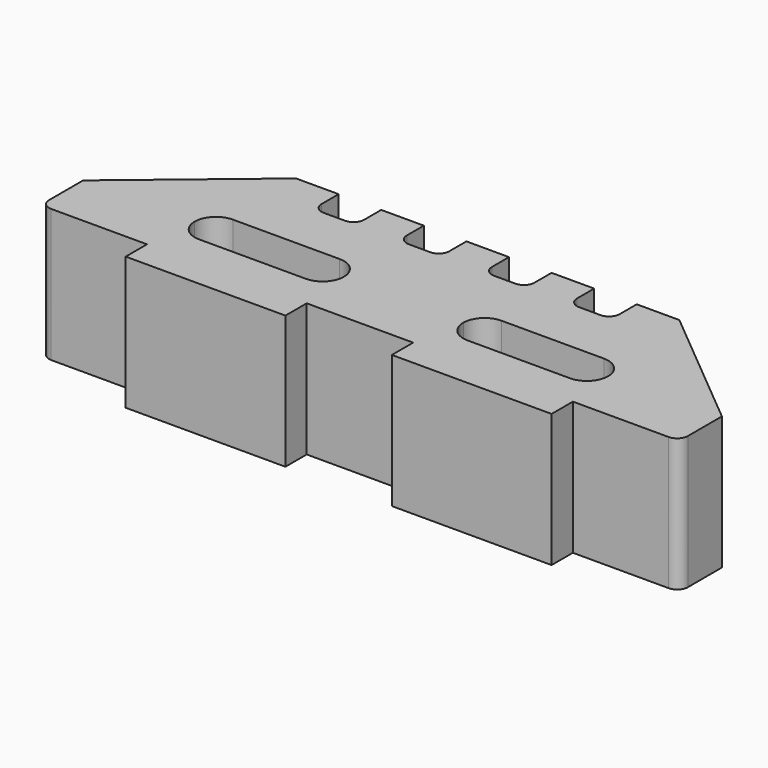
from build123d import *

# Parameters (mm, degrees)
F1_DEPTH = 25


with BuildPart() as f1:
    # F0 (on Top) → F1 (new body)
    with BuildSketch(Plane.XY):
        with BuildLine():
            ThreePointArc((-50, 12.727273), (-49.414214, 11.31306), (-48, 10.727273))
            Line((-48, 10.727273), (-30, 10.727273))
            Line((-30, 10.727273), (-30, 5.727273))
            Line((-30, 5.727273), (0, 5.727273))
            Line((0, 5.727273), (0, 10.727273))
            Line((0, 10.727273), (20, 10.727273))
            Line((20, 10.727273), (20, 5.727273))
            Line((20, 5.727273), (35, 5.727273))
            Line((35, 5.727273), (50, 5.727273))
            Line((50, 5.727273), (50, 10.727273))
            Line((50, 10.727273), (68, 10.727273))
            ThreePointArc((68, 10.727273), (69.414214, 11.31306), (70, 12.727273))
            Line((70, 12.727273), (70, 20.727273))
            Line((70, 20.727273), (46, 40.727273))
            Line((46, 40.727273), (38, 40.727273))
            Line((38, 40.727273), (38, 36.727273))
            ThreePointArc((38, 36.727273), (37.414214, 35.31306), (36, 34.727273))
            Line((36, 34.727273), (32, 34.727273))
            ThreePointArc((32, 34.727273), (30.585786, 35.31306), (30, 36.727273))
            Line((30, 36.727273), (30, 40.727273))
            Line((30, 40.727273), (22, 40.727273))
            Line((22, 40.727273), (22, 36.727273))
            ThreePointArc((22, 36.727273), (21.414214, 35.31306), (20, 34.727273))
            Line((20, 34.727273), (16, 34.727273))
            ThreePointArc((16, 34.727273), (14.585786, 35.31306), (14, 36.727273))
            Line((14, 36.727273), (14, 40.727273))
            Line((14, 40.727273), (6, 40.727273))
            Line((6, 40.727273), (6, 36.727273))
            ThreePointArc((6, 36.727273), (5.414214, 35.31306), (4, 34.727273))
            Line((4, 34.727273), (0, 34.727273))
            ThreePointArc((0, 34.727273), (-1.414214, 35.31306), (-2, 36.727273))
            Line((-2, 36.727273), (-2, 40.727273))
            Line((-2, 40.727273), (-10, 40.727273))
            Line((-10, 40.727273), (-10, 36.727273))
            ThreePointArc((-10, 36.727273), (-10.585786, 35.31306), (-12, 34.727273))
            Line((-12, 34.727273), (-16, 34.727273))
            ThreePointArc((-16, 34.727273), (-17.414214, 35.31306), (-18, 36.727273))
            Line((-18, 36.727273), (-18, 40.727273))
            Line((-18, 40.727273), (-26, 40.727273))
            Line((-26, 40.727273), (-50, 20.727273))
            Line((-50, 20.727273), (-50, 12.727273))
        make_face()
        with BuildLine():
            Line((-25.044861, 24.727273), (-5, 24.727273))
            ThreePointArc((-5, 24.727273), (-2.171573, 23.555701), (-1, 20.727273))
            ThreePointArc((-1, 20.727273), (-2.171573, 17.898846), (-5, 16.727273))
            Line((-5, 16.727273), (-25.044861, 16.727273))
            ThreePointArc((-25.044861, 16.727273), (-27.873288, 17.898846), (-29.044861, 20.727273))
            ThreePointArc((-29.044861, 20.727273), (-27.873288, 23.555701), (-25.044861, 24.727273))
        make_face(mode=Mode.SUBTRACT)
        with BuildLine():
            Line((45.003504, 16.260002), (35, 16.260002))
            Line((35, 16.260002), (25.786515, 16.260002))
            ThreePointArc((25.786515, 16.260002), (22.958088, 17.431574), (21.786515, 20.260002))
            ThreePointArc((21.786515, 20.260002), (22.958088, 23.088429), (25.786515, 24.260002))
            Line((25.786515, 24.260002), (45.003504, 24.260002))
            ThreePointArc((45.003504, 24.260002), (47.831931, 23.088429), (49.003504, 20.260002))
            ThreePointArc((49.003504, 20.260002), (47.831931, 17.431574), (45.003504, 16.260002))
        make_face(mode=Mode.SUBTRACT)
    extrude(amount=F1_DEPTH)


solid = f1.part
